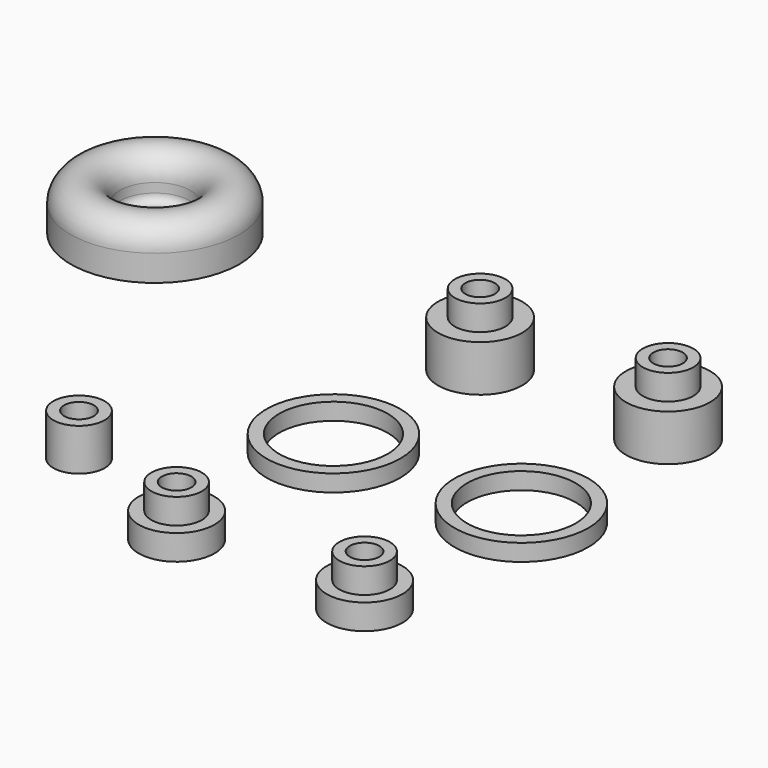
from build123d import *

# Parameters (mm, degrees)
F2_R      = 1
F3_R      = 3.05
F3_R_2    = 1.75
F4_DEPTH  = 5
F5_R      = 4.5
F5_R_2    = 1.75
F6_DEPTH  = 3
F7_R      = 3
F7_R_2    = 1.75
F8_DEPTH  = 3
F9_R      = 7.95
F9_R_2    = 6.45
F10_DEPTH = 2
F11_R     = 5
F11_R_2   = 1.75
F12_DEPTH = 5.5
F13_R     = 3
F13_R_2   = 1.75
F14_DEPTH = 3


with BuildPart() as f1:
    # F0 (on Front) → F1 (revolve)
    with BuildSketch(Plane.XZ):
        Polygon((2, 1), (2, 0), (10, 0), (10, 1), (4.2, 1), align=None)
        with BuildLine():
            Line((4.2, 1), (10, 1))
            Line((10, 1), (10, 3.1))
            ThreePointArc((10, 3.1), (7.1, 6), (4.2, 3.1))
            Line((4.2, 3.1), (4.2, 1))
        make_face()
    revolve(axis=Axis((0, 0, 5.6574991904), (0, 0, 1)))

    # F2
    f2_edges = [f1.edges().sort_by_distance(p)[0] for p in [
        (-4.2, 0, 1),
    ]]
    fillet(f2_edges, radius=F2_R)


with BuildPart() as f4:
    # F3 (on Top) → F4 (new body)
    with BuildSketch(Plane.XY):
        with Locations((22.7546263486, -39.7136881948)):
            Circle(F3_R)
        with Locations((22.7546263486, -39.7136881948)):
            Circle(F3_R_2, mode=Mode.SUBTRACT)
    extrude(amount=F4_DEPTH)


with BuildPart() as f6:
    # F5 (on Top) → F6 (new body)
    with BuildSketch(Plane.XY):
        with Locations((39.9487502873, -46.729080379)):
            Circle(F5_R)
        with Locations((39.9487502873, -46.729080379)):
            Circle(F5_R_2, mode=Mode.SUBTRACT)
    extrude(amount=F6_DEPTH)

    # F7 (on face) → F8 (join)
    with BuildSketch(Plane.XY.offset(3)):
        with Locations((39.9487502873, -46.729080379)):
            Circle(F7_R)
        with Locations((39.9487502873, -46.729080379)):
            Circle(F7_R_2, mode=Mode.SUBTRACT)
    extrude(amount=F8_DEPTH)


with BuildPart() as f10:
    # F9 (on Top) → F10 (new body)
    with BuildSketch(Plane.XY):
        with Locations((40.4646247625, -24.1137556732)):
            Circle(F9_R)
        with Locations((40.4646247625, -24.1137556732)):
            Circle(F9_R_2, mode=Mode.SUBTRACT)
    extrude(amount=F10_DEPTH)


with BuildPart() as f12:
    # F11 (on Top) → F12 (new body)
    with BuildSketch(Plane.XY):
        with Locations((40.6621545553, -2.6087376755)):
            Circle(F11_R)
        with Locations((40.6621545553, -2.6087376755)):
            Circle(F11_R_2, mode=Mode.SUBTRACT)
    extrude(amount=F12_DEPTH)

    # F13 (on face) → F14 (join)
    with BuildSketch(Plane.XY.offset(5.5)):
        with Locations((40.6621545553, -2.6087376755)):
            Circle(F13_R)
        with Locations((40.6621545553, -2.6087376755)):
            Circle(F13_R_2, mode=Mode.SUBTRACT)
    extrude(amount=F14_DEPTH)


with BuildPart() as f15_1:
    # F15: copy of F6
    add(f6.part.moved(Location((22.3, 0, 0))))


with BuildPart() as f15_2:
    # F15: copy of F10
    add(f10.part.moved(Location((22.3, 0, 0))))


with BuildPart() as f15_3:
    # F15: copy of F12
    add(f12.part.moved(Location((22.3, 0, 0))))


solid = Compound([f1.part, f4.part, f6.part, f10.part, f12.part, f15_1.part, f15_2.part, f15_3.part])
